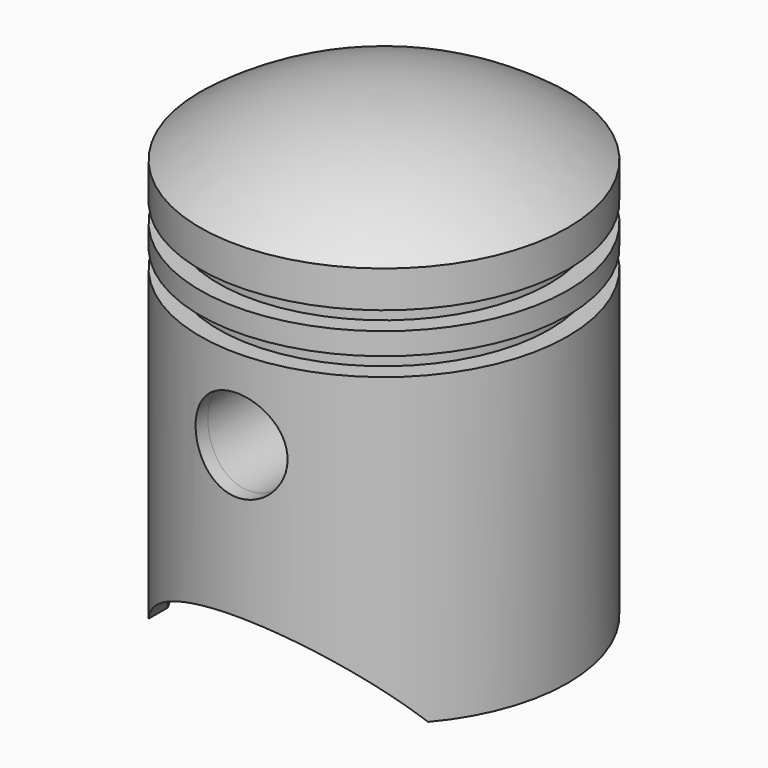
from build123d import *

# Parameters (mm, degrees)
F2_R     = 6.25
F3_DEPTH = 38.5
F5_R     = 7.25
F5_R_2   = 6.25


with BuildPart() as f1:
    # F0 (on Front) → F1 (revolve)
    with BuildSketch(Plane.XZ):
        with BuildLine():
            ThreePointArc((12.5, 54.5), (0.6749016912, 60.609067785), (-12.5, 62.5))
            Line((-12.5, 62.5), (-12.5, 60.4993628498))
            ThreePointArc((-12.5, 60.4993628498), (-0.4305073627, 58.8591654448), (10.5, 53.4845111449))
            Line((10.5, 53.4845111449), (10.5, 51.5))
            Line((10.5, 51.5), (10, 51.5))
            Line((10, 51.5), (8, 51.5))
            Line((8, 51.5), (8, 43.400001586))
            Line((8, 43.400001586), (8, 39.5))
            Line((8, 39.5), (10.5, 39.5))
            Line((10.5, 39.5), (10.5, 0))
            Line((10.5, 0), (12.5, 0))
            Line((12.5, 0), (12.5, 41.5))
            Line((12.5, 41.5), (10, 41.5))
            Line((10, 41.5), (10, 44))
            Line((10, 44), (12.5, 44))
            Line((12.5, 44), (12.5, 47))
            Line((12.5, 47), (10, 47))
            Line((10, 47), (10, 49.5))
            Line((10, 49.5), (12.5, 49.5))
            Line((12.5, 49.5), (12.5, 54.5))
        make_face()
    revolve(axis=Axis((-12.5, 0, 61.4996814249), (0, 0, -1)))

    # F2 (on Front) → F3 (cut, symmetric)
    with BuildSketch(Plane.XZ):
        with BuildLine():
            ThreePointArc((-12.5, 10), (-23.2354552768, 7.3473650259), (-31.5, 0))
            Line((-31.5, 0), (-12.5, 0))
            Line((-12.5, 0), (-12.5, 10))
        make_face()
        with BuildLine():
            Line((-12.5, 10), (-12.5, 0))
            Line((-12.5, 0), (6.5, 0))
            ThreePointArc((6.5, 0), (-1.7645447232, 7.3473650259), (-12.5, 10))
        make_face()
        with Locations((-12.5, 30.5)):
            Circle(F2_R)
    extrude(amount=F3_DEPTH, both=True, mode=Mode.SUBTRACT)

    # F5 (on offset) → F6 (join, up to the next surface of F1)
    with BuildSketch(Plane.XZ.offset(12)):
        with Locations((-12.5, 30.5)):
            Circle(F5_R)
        with Locations((-12.5, 30.5)):
            Circle(F5_R_2, mode=Mode.SUBTRACT)
    extrude(until=Until.NEXT)

    # F7: F1 across plane


with BuildPart() as f1_1:
    add(f1.part)
    add(f1.part.mirror(Plane.XZ))


solid = f1_1.part
